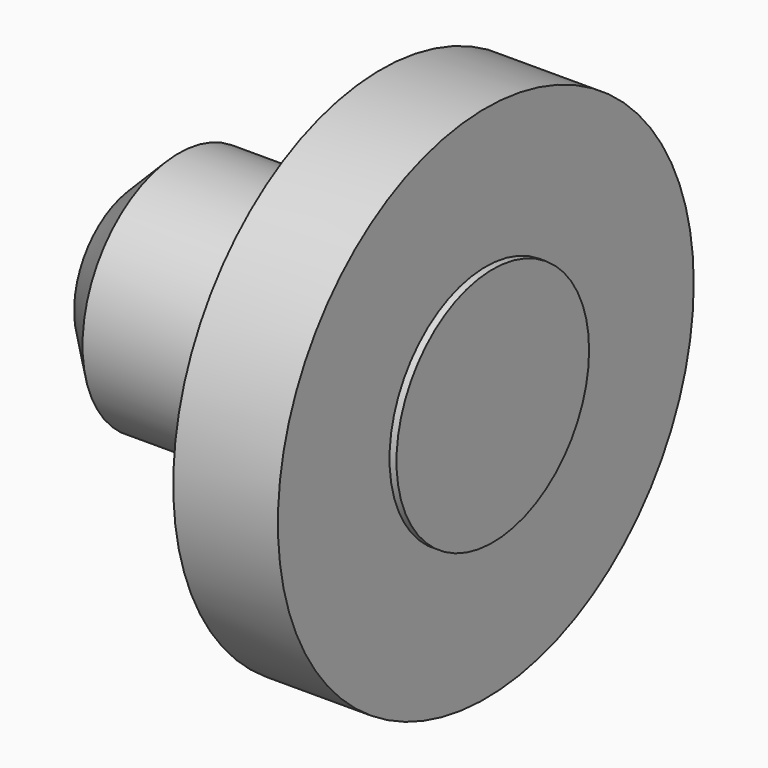
from build123d import *

# Parameters (mm, degrees)
F0_R     = 3.725
F1_DEPTH = 1.5
F2_R     = 1.725
F3_DEPTH = 3.5
F4_R     = 1.725
F5_DEPTH = 1.6
F6_SIZE  = 0.6


with BuildPart() as f1:
    # F0 (on Right) → F1 (new body)
    with BuildSketch(Plane.YZ):
        Circle(F0_R)
    extrude(amount=F1_DEPTH)

    # F2 (on Right) → F3 (join)
    with BuildSketch(Plane.YZ):
        Circle(F2_R)
    extrude(amount=-F3_DEPTH)

    # F4 (on Right) → F5 (join)
    with BuildSketch(Plane.YZ):
        Circle(F4_R)
    extrude(amount=F5_DEPTH)

    # F6
    f6_edges = [f1.edges().sort_by_distance(p)[0] for p in [
        (-3.5, -1.725, 0),
    ]]
    chamfer(f6_edges, length=F6_SIZE)


solid = f1.part
